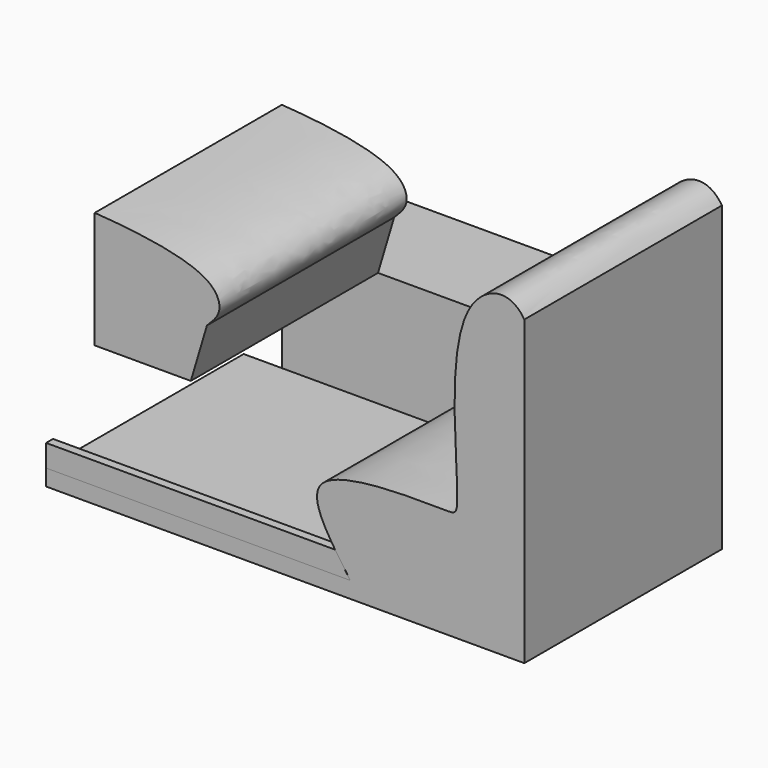
from build123d import *

# Parameters (mm, degrees)
F1_DEPTH = 57
F3_DEPTH = 25
F4_DEPTH = 54
F6_DEPTH = 2


with BuildPart() as f1:
    # F0 (on Front) → F1 (new body)
    with BuildSketch(Plane.XZ):
        with BuildLine():
            Line((-52.3748546839, -26.5628732741), (-52.3748546839, -30.3173419088))
            Line((-52.3748546839, -30.3173419088), (58.0065622926, -30.3173419088))
            Line((58.0065622926, -30.3173419088), (58.0065622926, 9.8554827273))
            Line((58.0065622926, 9.8554827273), (58.0065622926, 39.5157933235))
            add(Edge.make_bspline(
                [(17.8337320685, -26.5628732741), (12.2987850228, -18.6842330707), (2.0561256493, -4.0935398057), (39.9184715576, -5.3165841483), (44.2737718214, -4.953746865), (37.2323042761, 40.1599145958), (54.5306136351, 44.9857218694), (58.0065622926, 39.5157933235)],
                knots=[0, 0, 0, 0, 0.1616552234, 0.3598685336, 0.4245980156, 0.6623038598, 0.7973775563, 0.7973775563, 0.7973775563, 0.7973775563], degree=3))
            Line((17.8337320685, -26.5628732741), (-52.3748546839, -26.5628732741))
        make_face()
    extrude(amount=F1_DEPTH)


with BuildPart() as f3:
    # F2 (on face) → F3 (new body)
    with BuildSketch(Plane(origin=(0, 0, 0), x_dir=(-1, 0, 0), z_dir=(0, 1, 0))):
        with BuildLine():
            Line((-35.2920144796, 0), (-35.2920144796, -5.1211647892))
            add(Edge.make_bspline(
                [(-17.8337320685, -26.5628732741), (-12.2987850228, -18.6842330707), (-3.158691971, -5.6641482207), (-27.7282411082, -5.0880441426), (-35.2920144796, -5.1211647892)],
                knots=[0, 0, 0, 0, 0.1616552234, 0.321130652, 0.321130652, 0.321130652, 0.321130652], degree=3))
            Line((-17.8337320685, -26.5628732741), (43.551851064, -26.5628732741))
            Line((43.551851064, -26.5628732741), (43.551851064, 0))
            Line((43.551851064, 0), (21.3691905319, 0))
            Line((21.3691905319, 0), (-35.2920144796, 0))
        make_face()
    extrude(amount=F3_DEPTH)


with BuildPart() as f4:
    # F2 (on face) → F4 (new body)
    with BuildSketch(Plane(origin=(0, 0, 0), x_dir=(-1, 0, 0), z_dir=(0, 1, 0))):
        with BuildLine():
            Line((17.6460072398, 12.4836126342), (21.3691905319, 0))
            Line((21.3691905319, 0), (43.551851064, 0))
            Line((43.551851064, 0), (43.551851064, 26.9383192062))
            add(Edge.make_bspline(
                [(17.6460072398, 12.4836126342), (16.3933606924, 13.7029773667), (13.7509765364, 16.2751554931), (17.0166456197, 24.3596606637), (34.3061298742, 26.3135049454), (43.551851064, 26.9383192062)],
                knots=[0, 0, 0, 0, 0.1536034597, 0.3240174566, 0.6828172606, 0.6828172606, 0.6828172606, 0.6828172606], degree=3))
        make_face()
    extrude(amount=-F4_DEPTH)


with BuildPart() as f6:
    # F5 (on face) → F6 (new body)
    with BuildSketch(Plane.XZ.offset(57)):
        with BuildLine():
            Line((-52.3748546839, -21.4539207518), (-52.3748546839, -26.5628732741))
            Line((-52.3748546839, -26.5628732741), (17.8337320685, -26.5628732741))
            add(Edge.make_bspline(
                [(17.8337320685, -26.5628732741), (16.5850717017, -24.7854857606), (15.3839396707, -23.0755019333), (14.317689771, -21.4539207518)],
                knots=[0, 0, 0, 0, 0.0364687266, 0.0364687266, 0.0364687266, 0.0364687266], degree=3))
            Line((14.317689771, -21.4539207518), (-52.3748546839, -21.4539207518))
        make_face()
    extrude(amount=-F6_DEPTH)


solid = Compound([f1.part, f3.part, f4.part, f6.part])
